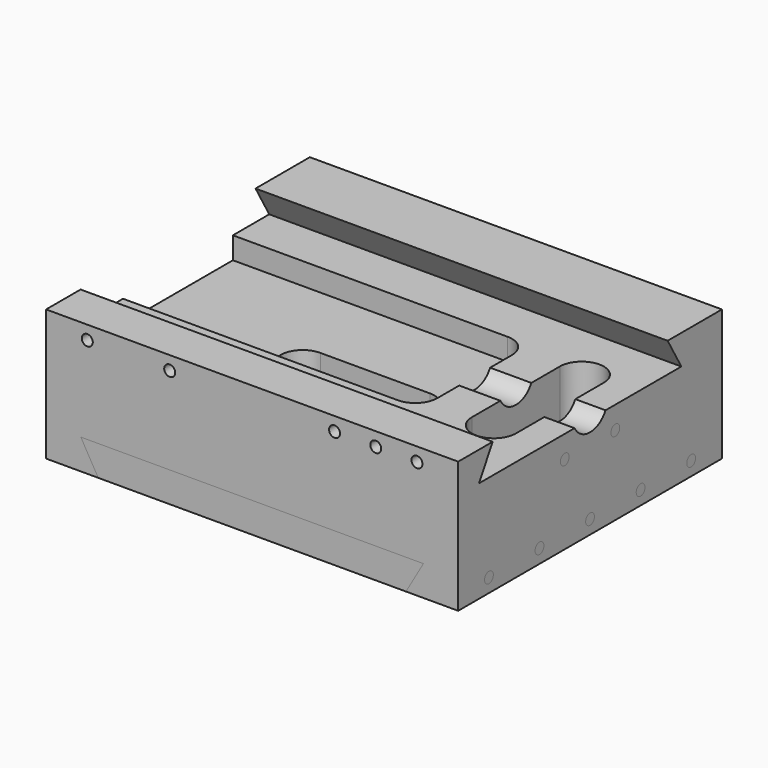
from build123d import *

# Parameters (mm, degrees)
EXTRUDE_SKETCH002001_DEPTH = 120
SKETCH001_R                = 2
EXTRUDE_SKETCH001001_DEPTH = 15
EXTRUDE_SKETCH001_DEPTH    = 15
EXTRUDE_SKETCH002_DEPTH    = 120
PAD_DEPTH                  = 150
POCKET003_DEPTH            = 20
POCKET004_DEPTH            = 8
POCKET005_DEPTH            = 30.8
SKETCH003_R                = 2
POCKET_DEPTH               = 19


with BuildPart() as sketch_006_extrude001:
    # Sketch002 → Extrude_Sketch002001 (new body)
    with BuildSketch(Plane(origin=(0, -60, 0), x_dir=(0, 0, -1), z_dir=(0, -1, 0))):
        Polygon((0, 19), (-11, 12.649147), (-11, 137.350853), (0, 131), align=None)
    extrude(amount=-EXTRUDE_SKETCH002001_DEPTH)


with BuildPart() as sketch_005_extrude001:
    # Sketch001 → Extrude_Sketch001001 (new body)
    with BuildSketch(Plane.YZ.offset(150)):
        with Locations((0, 5)):
            Circle(SKETCH001_R)
        with Locations((23, 5)):
            Circle(SKETCH001_R)
        with Locations((46, 5)):
            Circle(SKETCH001_R)
        with Locations((-23, 5)):
            Circle(SKETCH001_R)
        with Locations((-46, 5)):
            Circle(SKETCH001_R)
        with Locations((-11.5, 28.8)):
            Circle(SKETCH001_R)
        with Locations((11.5, 28.8)):
            Circle(SKETCH001_R)
    extrude(amount=-EXTRUDE_SKETCH001001_DEPTH)


with BuildPart() as sketch_005_extrude:
    # Sketch001 → Extrude_Sketch001 (new body)
    with BuildSketch(Plane.YZ.offset(150)):
        with Locations((0, 5)):
            Circle(SKETCH001_R)
        with Locations((23, 5)):
            Circle(SKETCH001_R)
        with Locations((46, 5)):
            Circle(SKETCH001_R)
        with Locations((-23, 5)):
            Circle(SKETCH001_R)
        with Locations((-46, 5)):
            Circle(SKETCH001_R)
        with Locations((-11.5, 28.8)):
            Circle(SKETCH001_R)
        with Locations((11.5, 28.8)):
            Circle(SKETCH001_R)
    extrude(amount=-EXTRUDE_SKETCH001_DEPTH)


with BuildPart() as sketch_006_extrude:
    # Sketch002 → Extrude_Sketch002 (new body)
    with BuildSketch(Plane(origin=(0, -60, 0), x_dir=(0, 0, -1), z_dir=(0, -1, 0))):
        Polygon((0, 19), (-11, 12.649147), (-11, 137.350853), (0, 131), align=None)
    extrude(amount=-EXTRUDE_SKETCH002_DEPTH)


with BuildPart() as cut001:
    # Sketch → Pad (new body)
    with BuildSketch(Plane.YZ):
        with BuildLine():
            Line((-60, 0), (-60, 47.8))
            Line((-60, 47.8), (-44.3, 47.8))
            Line((-44.3, 47.8), (-50.535383, 37))
            Line((-50.535383, 37), (-7.039886, 37))
            ThreePointArc((-7.039886, 37), (0, 32.8), (7.039886, 37))
            Line((7.039886, 37), (41.535383, 37))
            Line((41.535383, 37), (35.3, 47.8))
            Line((35.3, 47.8), (60, 47.8))
            Line((60, 47.8), (60, 0))
            Line((60, 0), (-60, 0))
        make_face()
    extrude(amount=PAD_DEPTH)

    # Sketch004 → Pocket003 (cut)
    with BuildSketch(Plane(origin=(0, 0, 37), x_dir=(0, -1, 0), z_dir=(0, 0, 1))):
        with BuildLine():
            ThreePointArc((-20, 139), (-28, 131), (-20, 123))
            Line((-20, 123), (20, 123))
            ThreePointArc((20, 123), (28, 131), (20, 139))
            Line((-20, 139), (20, 139))
        make_face()
    extrude(amount=-POCKET003_DEPTH, mode=Mode.SUBTRACT)

    # Sketch005 → Pocket004 (cut)
    with BuildSketch(Plane(origin=(0, 0, 37), x_dir=(0, -1, 0), z_dir=(0, 0, 1))):
        with BuildLine():
            ThreePointArc((-16.999966, 108), (-22.656842, 105.656866), (-25, 100))
            Line((-25, 100), (-25, 0))
            Line((-25, 0), (25, 0))
            Line((25, 0), (25, 100))
            ThreePointArc((25, 100), (22.656866, 105.656842), (17.000034, 108))
            Line((-16.999966, 108), (17.000034, 108))
        make_face()
    extrude(amount=-POCKET004_DEPTH, mode=Mode.SUBTRACT)

    # Sketch006 → Pocket005 (cut)
    with BuildSketch(Plane(origin=(0, 0, 29), x_dir=(0, -1, 0), z_dir=(0, 0, 1))):
        with BuildLine():
            ThreePointArc((20, 95), (12, 103), (4, 95))
            Line((4, 95), (4, 55))
            ThreePointArc((4, 55), (12, 47), (20, 55))
            Line((20, 95), (20, 55))
        make_face()
    extrude(amount=-POCKET005_DEPTH, mode=Mode.SUBTRACT)

    # Sketch003 → Pocket (cut)
    with BuildSketch(Plane(origin=(0, -60, 0), x_dir=(0, 0, -1), z_dir=(0, -1, 0))):
        with Locations((-42.8, 15)):
            Circle(SKETCH003_R)
        with Locations((-42.8, 45)):
            Circle(SKETCH003_R)
        with Locations((-42.8, 105)):
            Circle(SKETCH003_R)
        with Locations((-42.8, 120)):
            Circle(SKETCH003_R)
        with Locations((-42.8, 135)):
            Circle(SKETCH003_R)
    extrude(amount=-POCKET_DEPTH, mode=Mode.SUBTRACT)

    # Cut: cut Sketch-006_Extrude
    add(sketch_006_extrude.part, mode=Mode.SUBTRACT)

    # Cut001: cut Sketch-005_Extrude
    add(sketch_005_extrude.part, mode=Mode.SUBTRACT)


solid = Compound([sketch_006_extrude001.part, sketch_005_extrude001.part, cut001.part])
